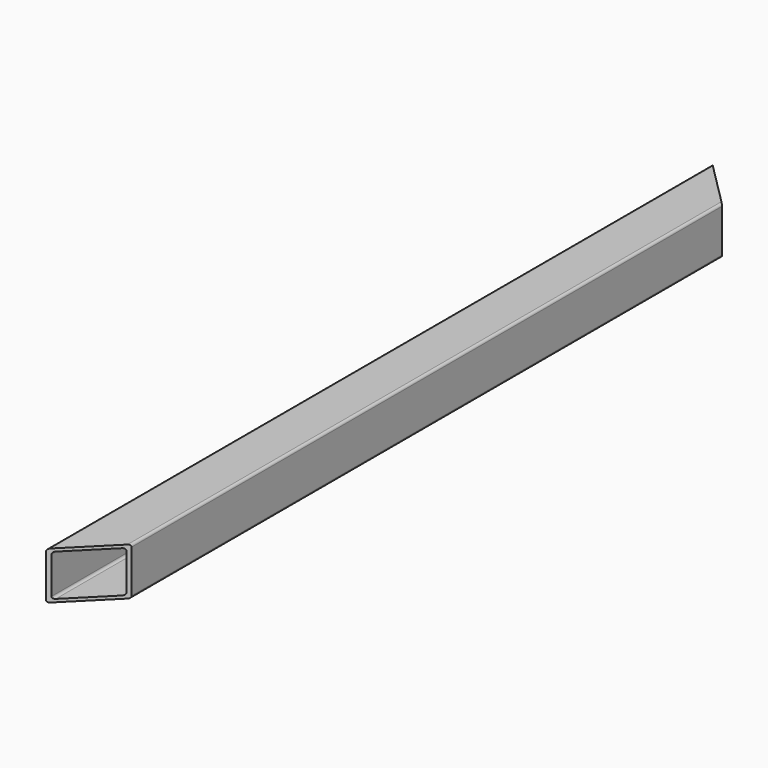
from build123d import *

# Parameters (mm, degrees)
F1_DEPTH = 350
F3_DEPTH = 20


with BuildPart() as f1:
    # F0 (on Front) → F1 (new body)
    with BuildSketch(Plane.XZ):
        with BuildLine():
            Line((9, 10), (-9, 10))
            ThreePointArc((-9, 10), (-9.7071067812, 9.7071067812), (-10, 9))
            Line((-10, 9), (-10, -9))
            ThreePointArc((-10, -9), (-9.7071067812, -9.7071067812), (-9, -10))
            Line((-9, -10), (9, -10))
            ThreePointArc((9, -10), (9.7071067812, -9.7071067812), (10, -9))
            Line((10, -9), (10, 9))
            ThreePointArc((10, 9), (9.7071067812, 9.7071067812), (9, 10))
        make_face()
        with BuildLine():
            ThreePointArc((-8.75, 7.75), (-8.4571067812, 8.4571067812), (-7.75, 8.75))
            Line((-7.75, 8.75), (7.75, 8.75))
            ThreePointArc((7.75, 8.75), (8.4571067812, 8.4571067812), (8.75, 7.75))
            Line((8.75, 7.75), (8.75, -7.75))
            ThreePointArc((8.75, -7.75), (8.4571067812, -8.4571067812), (7.75, -8.75))
            Line((7.75, -8.75), (-7.75, -8.75))
            ThreePointArc((-7.75, -8.75), (-8.4571067812, -8.4571067812), (-8.75, -7.75))
            Line((-8.75, -7.75), (-8.75, 7.75))
        make_face(mode=Mode.SUBTRACT)
    extrude(amount=F1_DEPTH)

    # F2 (on face) → F3 (cut)
    with BuildSketch(Plane.XY.offset(10)):
        Polygon((10, 0), (9, 0), (9, -19), (10, -20), align=None)
        Polygon((9, 0), (-9, 0), (-9, -1), (9, -19), align=None)
        Polygon((9, -331), (-9, -349), (-9, -350), (9, -350), align=None)
        Polygon((10, -330), (9, -331), (9, -350), (10, -350), align=None)
        Polygon((-9, -350), (-9, -349), (-10, -350), align=None)
        Polygon((-9, -1), (-9, 0), (-10, 0), align=None)
    extrude(amount=-F3_DEPTH, mode=Mode.SUBTRACT)


solid = f1.part
